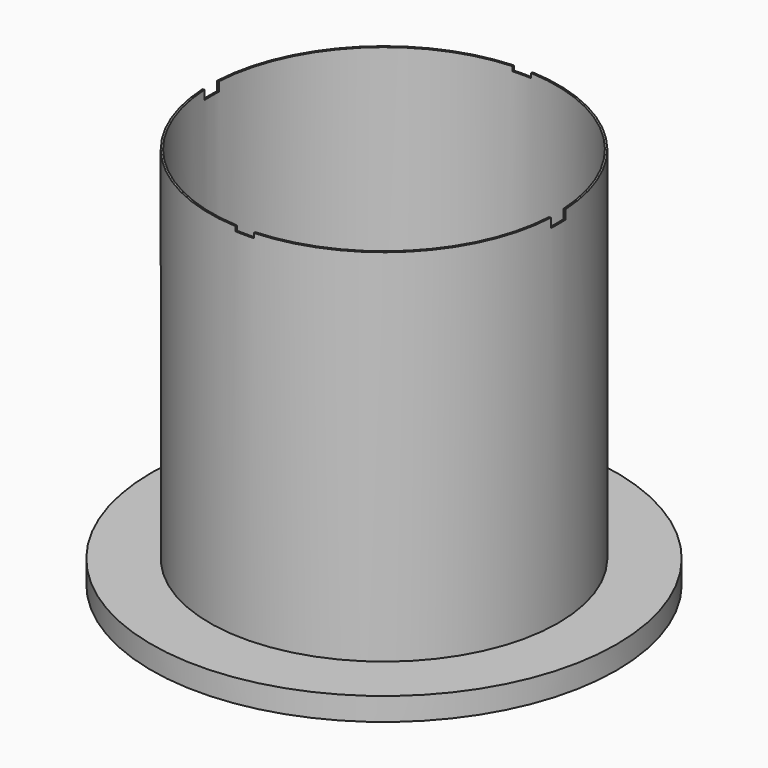
from build123d import *

# Parameters (mm, degrees)
F0_R          = 76.2
F1_DEPTH      = 158.28
F2_T          = -0.8
F3_R          = 1
F4_DEPTH      = 0.8
F5_W          = 8
F5_H          = 2
F6_DEPTH      = 76.201
F6_DEPTH_BACK = 76.201
F7_W          = 8
F7_H          = 4
F8_DEPTH      = 76.201
F8_DEPTH_BACK = 76.201


with BuildPart() as f1:
    # F0 (on Top) → F1 (new body)
    with BuildSketch(Plane.XY):
        Circle(F0_R)
    extrude(amount=F1_DEPTH)

    # F2
    f2_openings = [f1.faces().sort_by_distance(p)[0] for p in [
        (0, 0, 158.28),
    ]]
    offset(amount=F2_T, openings=f2_openings)

    # F3 (on face) → F4 (cut, through all)
    with BuildSketch(Plane.XY.offset(0.8)):
        Circle(F3_R)
    extrude(amount=-F4_DEPTH, mode=Mode.SUBTRACT)

    # F5 (on Front) → F6 (cut, two sides)
    with BuildSketch(Plane.XZ) as f6_sk:
        with Locations((0, 157.28)):
            Rectangle(F5_W, F5_H)
    extrude(amount=-F6_DEPTH, mode=Mode.SUBTRACT)
    extrude(f6_sk.sketch, amount=F6_DEPTH_BACK, mode=Mode.SUBTRACT)

    # F7 (on Right) → F8 (cut, two sides)
    with BuildSketch(Plane.YZ) as f8_sk:
        with Locations((0, 156.28)):
            Rectangle(F7_W, F7_H)
    extrude(amount=-F8_DEPTH, mode=Mode.SUBTRACT)
    extrude(f8_sk.sketch, amount=F8_DEPTH_BACK, mode=Mode.SUBTRACT)

    # F9 (on Front) → F10 (revolve)
    with BuildSketch(Plane.XZ):
        Polygon((76.2, 0.8), (76.2, 0), (100.8, 0), (100.8, -9.2), (101.6, -9.2), (101.6, 0.8), align=None)
    revolve(axis=Axis((0, 0, 18.5718685389), (0, 0, 1)))


solid = f1.part
